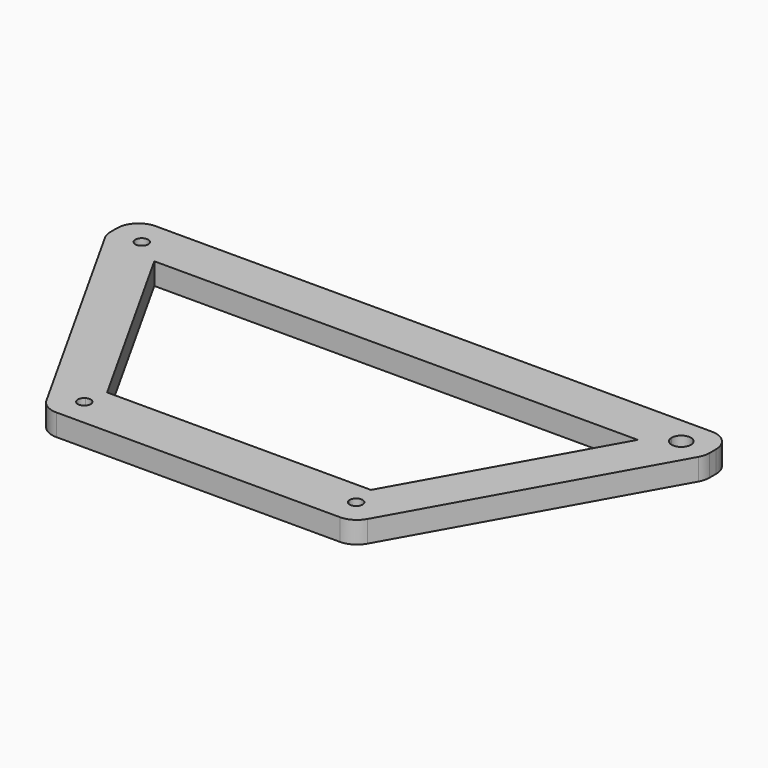
from build123d import *

# Parameters (mm, degrees)
F1_DEPTH = 5.08
F2_R     = 5


with BuildPart() as f1:
    # F0 (on Top) → F1 (new body)
    with BuildSketch(Plane.XY):
        Polygon((79.7662436962, 54.1192750509), (79.7662436962, 62.3072507854), (-60.0958508095, 62.3072507854), (-60.0958508095, 54.1192750509), (-26.2034417042, -6.45532602), (45.873834591, -6.45532602), align=None)
        with BuildLine():
            ThreePointArc((-52.4323816816, 54.5428952787), (-54.4587573449, 56.6106629243), (-51.6648035566, 55.8519247654))
            Line((-51.6648035566, 55.8519247654), (-49.1503152863, 55.8519247654))
            Line((-49.1503152863, 55.8519247654), (9.8351964434, 55.8519247654))
            Line((9.8351964434, 55.8519247654), (68.820708173, 55.8519247654))
            Line((68.820708173, 55.8519247654), (70.5851964434, 55.8519247654))
            ThreePointArc((70.5851964434, 55.8519247654), (72.8351964434, 58.1019247654), (75.0851964434, 55.8519247654))
            ThreePointArc((75.0851964434, 55.8519247654), (73.9733036817, 53.910994083), (71.7365636309, 53.8883805354))
            Line((71.7365636309, 53.8883805354), (70.3029618372, 51.3261591105))
            Line((70.3029618372, 51.3261591105), (44.6580972723, 5.4920776291))
            Line((44.6580972723, 5.4920776291), (42.3176183184, 1.3090294867))
            ThreePointArc((42.3176183184, 1.3090294867), (42.8791502317, 0.7587381589), (43.0851964434, 0))
            ThreePointArc((43.0851964434, 0), (41.5851964434, -1.5), (40.0851964434, 0))
            Line((40.0851964434, 0), (37.570708173, 0))
            Line((37.570708173, 0), (9.8351964434, 0))
            Line((9.8351964434, 0), (-17.9003152863, 0))
            Line((-17.9003152863, 0), (-20.4148035566, 0))
            ThreePointArc((-20.4148035566, 0), (-22.6735417155, -1.2939537883), (-22.6472254316, 1.3090294867))
            Line((-22.6472254316, 1.3090294867), (-24.9877043856, 5.4920776291))
            Line((-24.9877043856, 5.4920776291), (-50.6325689504, 51.3261591105))
            Line((-50.6325689504, 51.3261591105), (-52.4323816816, 54.5428952787))
        make_face(mode=Mode.SUBTRACT)
        Polygon((9.8351964434, 55.8519247654), (-49.1503152863, 55.8519247654), (-46.6180806801, 51.3261591105), (9.8351964434, 51.3261591105), align=None)
        Polygon((68.820708173, 55.8519247654), (9.8351964434, 55.8519247654), (9.8351964434, 51.3261591105), (66.2884735668, 51.3261591105), align=None)
        Polygon((-46.6180806801, 51.3261591105), (-50.6325689504, 51.3261591105), (-24.9877043856, 5.4920776291), (-20.9732161152, 5.4920776291), align=None)
        Polygon((70.3029618372, 51.3261591105), (66.2884735668, 51.3261591105), (40.643609002, 5.4920776291), (44.6580972723, 5.4920776291), align=None)
        Polygon((9.8351964434, 5.4920776291), (-20.9732161152, 5.4920776291), (-17.9003152863, 0), (9.8351964434, 0), align=None)
        Polygon((40.643609002, 5.4920776291), (9.8351964434, 5.4920776291), (9.8351964434, 0), (37.570708173, 0), align=None)
        with BuildLine():
            Line((44.6580972723, 5.4920776291), (40.643609002, 5.4920776291))
            Line((40.643609002, 5.4920776291), (37.570708173, 0))
            Line((37.570708173, 0), (40.0851964434, 0))
            ThreePointArc((40.0851964434, 0), (40.8264582845, 1.2939537883), (42.3176183184, 1.3090294867))
            Line((42.3176183184, 1.3090294867), (44.6580972723, 5.4920776291))
        make_face()
        with BuildLine():
            Line((-20.9732161152, 5.4920776291), (-24.9877043856, 5.4920776291))
            Line((-24.9877043856, 5.4920776291), (-22.6472254316, 1.3090294867))
            ThreePointArc((-22.6472254316, 1.3090294867), (-21.1560653977, 1.2939537883), (-20.4148035566, 0))
            Line((-20.4148035566, 0), (-17.9003152863, 0))
            Line((-17.9003152863, 0), (-20.9732161152, 5.4920776291))
        make_face()
        with BuildLine():
            Line((-49.1503152863, 55.8519247654), (-51.6648035566, 55.8519247654))
            ThreePointArc((-51.6648035566, 55.8519247654), (-51.8708497683, 55.0931866065), (-52.4323816816, 54.5428952787))
            Line((-52.4323816816, 54.5428952787), (-50.6325689504, 51.3261591105))
            Line((-50.6325689504, 51.3261591105), (-46.6180806801, 51.3261591105))
            Line((-46.6180806801, 51.3261591105), (-49.1503152863, 55.8519247654))
        make_face()
        with BuildLine():
            Line((70.5851964434, 55.8519247654), (68.820708173, 55.8519247654))
            Line((68.820708173, 55.8519247654), (66.2884735668, 51.3261591105))
            Line((66.2884735668, 51.3261591105), (70.3029618372, 51.3261591105))
            Line((70.3029618372, 51.3261591105), (71.7365636309, 53.8883805354))
            ThreePointArc((71.7365636309, 53.8883805354), (70.8942657609, 54.7138175271), (70.5851964434, 55.8519247654))
        make_face()
    extrude(amount=F1_DEPTH)

    # F2
    f2_edges = [f1.edges().sort_by_distance(p)[0] for p in [
        (-60.095851, 62.307251, 2.54),
        (-60.095851, 54.119275, 2.54),
        (79.766244, 62.307251, 2.54),
        (79.766244, 54.119275, 2.54),
        (45.873835, -6.455326, 2.54),
        (-26.203442, -6.455326, 2.54),
    ]]
    fillet(f2_edges, radius=F2_R)


solid = f1.part
